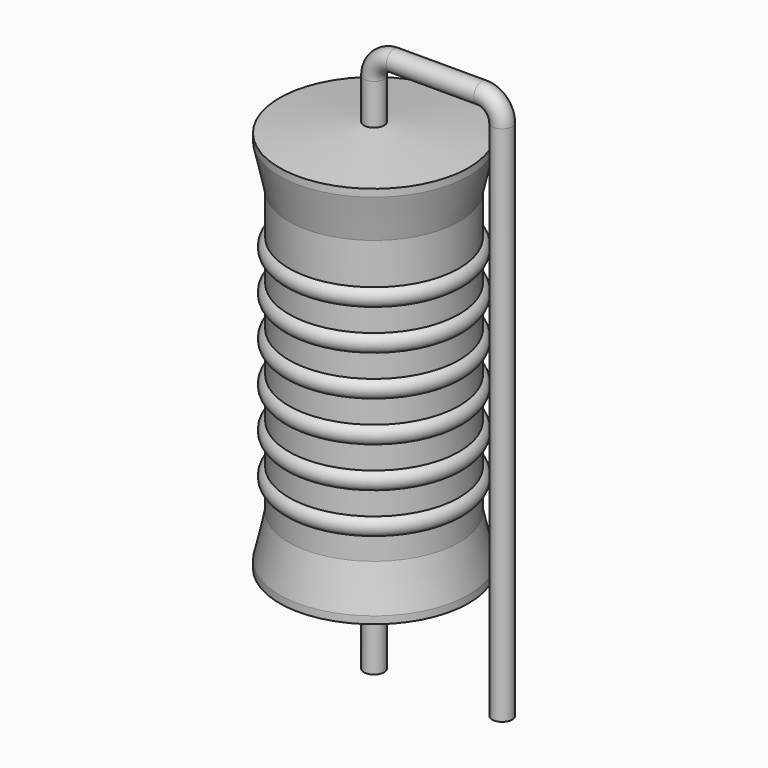
from build123d import *

# Parameters (mm, degrees)
SKETCH_R = 0.4


with BuildPart() as revolution:
    # Sketch002 → Revolution (revolve)
    with BuildSketch(Plane.XZ):
        Polygon((0, 0.1), (0, 16.1), (0.3, 16.1), (3.75, 15.7), (3.75, 15.4075), (3.375, 13.7), (3.375, 2.5), (3.75, 0.7925), (3.75, 0.5), (0.3, 0.1), align=None)
    revolve(axis=Axis((0, 0, 0), (0, 0, 1)))


with BuildPart() as sweep_body:
    # Sweep: sweep along a path in Sketch001
    with BuildLine(Plane.XZ) as sweep_path:
        Line((0, -3), (0, 17.7))
        ThreePointArc((0, 17.7), (0.234311, 18.265682), (0.799989, 18.5))
        Line((0.799989, 18.5), (4.28, 18.5))
        ThreePointArc((4.28, 18.5), (4.845685, 18.265685), (5.08, 17.7))
        Line((5.08, 17.7), (5.08, -3))
    # Sketch → Sweep (sweep)
    with BuildSketch(Plane.XY.offset(-2)):
        Circle(SKETCH_R)
    sweep(path=sweep_path.line)


with BuildPart() as obj1:
    # Sketch003 → Revolution001 (revolve)
    with BuildSketch(Plane.XZ):
        with BuildLine():
            Line((3, 12.95), (3, 2.5))
            Line((3, 2.5), (3.225, 2.5))
            Line((3.225, 2.5), (3.225, 3.35))
            ThreePointArc((3.225, 3.35), (3.6, 3.725), (3.225, 4.1))
            Line((3.225, 4.1), (3.225, 4.95))
            ThreePointArc((3.225, 4.95), (3.6, 5.325), (3.225, 5.7))
            Line((3.225, 5.7), (3.225, 6.55))
            ThreePointArc((3.225, 6.55), (3.6, 6.925), (3.225, 7.3))
            Line((3.225, 7.3), (3.225, 8.15))
            ThreePointArc((3.225, 8.15), (3.6, 8.525), (3.225, 8.9))
            Line((3.225, 8.9), (3.225, 9.75))
            ThreePointArc((3.225, 9.75), (3.6, 10.125), (3.225, 10.5))
            Line((3.225, 10.5), (3.225, 11.35))
            ThreePointArc((3.225, 11.35), (3.6, 11.725), (3.225, 12.1))
            Line((3.225, 12.95), (3.225, 12.1))
            Line((3, 12.95), (3.225, 12.95))
        make_face()
    revolve(axis=Axis((0, 0, 0), (0, 0, 1)))

    # obj1: union Revolution, Sweep body
    add(revolution.part)
    add(sweep_body.part)


solid = obj1.part
